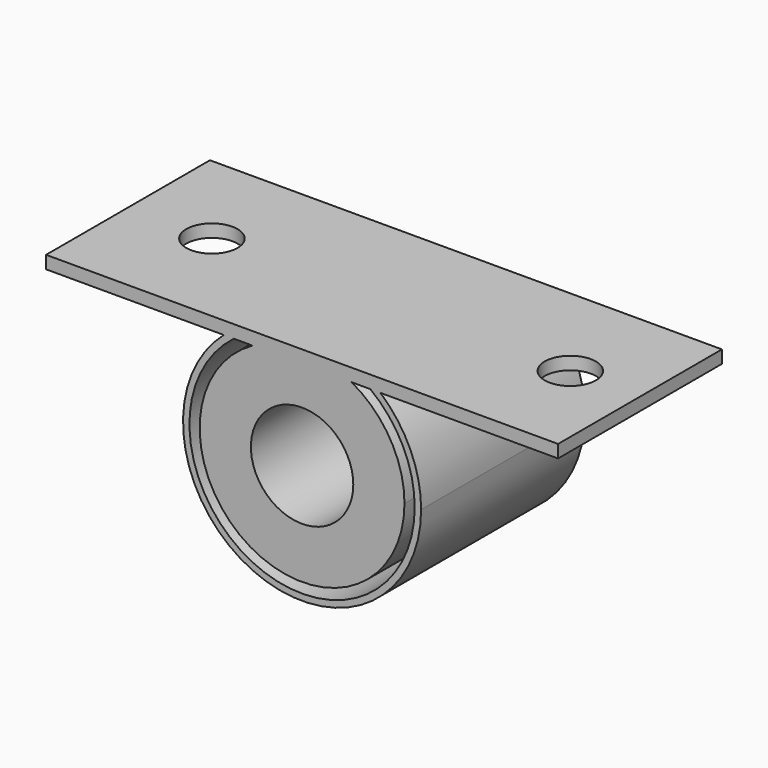
from build123d import *

# Parameters (mm, degrees)
F0_R     = 6.35
F1_DEPTH = 25.4
F3_DEPTH = 25.4


with BuildPart() as f1:
    # F0 (on Front) → F1 (new body)
    with BuildSketch(Plane.XZ):
        with BuildLine():
            ThreePointArc((-6.1483610621, 11.1125), (-6.4500315701, -10.9401596307), (12.7, 0))
            ThreePointArc((12.7, 0), (10.9401596307, 6.4500315701), (6.1483610621, 11.1125))
            Line((6.1483610621, 11.1125), (-6.1483610621, 11.1125))
        make_face()
        Circle(F0_R, mode=Mode.SUBTRACT)
        with BuildLine():
            ThreePointArc((7.5285001204, 12.7), (8.6607580386, 11.9565707567), (9.7201161419, 11.1125))
            Line((9.7201161419, 11.1125), (31.75, 11.1125))
            Line((31.75, 11.1125), (31.75, 12.7))
            Line((31.75, 12.7), (7.5285001204, 12.7))
        make_face()
        with BuildLine():
            Line((-31.75, 11.1125), (-9.7201161419, 11.1125))
            ThreePointArc((-9.7201161419, 11.1125), (-8.6607580386, 11.9565707567), (-7.5285001204, 12.7))
            Line((-7.5285001204, 12.7), (-31.75, 12.7))
            Line((-31.75, 12.7), (-31.75, 11.1125))
        make_face()
        with BuildLine():
            ThreePointArc((0, 12.7), (3.175, 12.2967221242), (6.1483610621, 11.1125))
            Line((6.1483610621, 11.1125), (8.4660051825, 11.1125))
            ThreePointArc((8.4660051825, 11.1125), (7.1869050769, 11.9795365276), (5.8198711326, 12.7))
            Line((5.8198711326, 12.7), (0, 12.7))
        make_face()
        with BuildLine():
            Line((-6.1483610621, 11.1125), (6.1483610621, 11.1125))
            ThreePointArc((6.1483610621, 11.1125), (3.175, 12.2967221242), (0, 12.7))
            ThreePointArc((0, 12.7), (-3.175, 12.2967221242), (-6.1483610621, 11.1125))
        make_face()
        with BuildLine():
            Line((-8.4660051825, 11.1125), (-6.1483610621, 11.1125))
            ThreePointArc((-6.1483610621, 11.1125), (-3.175, 12.2967221242), (0, 12.7))
            Line((0, 12.7), (-5.8198711326, 12.7))
            ThreePointArc((-5.8198711326, 12.7), (-7.1869050769, 11.9795365276), (-8.4660051825, 11.1125))
        make_face()
        with BuildLine():
            Line((-9.7201161419, 11.1125), (-8.4660051825, 11.1125))
            ThreePointArc((-8.4660051825, 11.1125), (-7.1869050769, 11.9795365276), (-5.8198711326, 12.7))
            Line((-5.8198711326, 12.7), (-7.5285001204, 12.7))
            ThreePointArc((-7.5285001204, 12.7), (-8.6607580386, 11.9565707567), (-9.7201161419, 11.1125))
        make_face()
        with BuildLine():
            ThreePointArc((5.8198711326, 12.7), (7.1869050769, 11.9795365276), (8.4660051825, 11.1125))
            Line((8.4660051825, 11.1125), (9.7201161419, 11.1125))
            ThreePointArc((9.7201161419, 11.1125), (8.6607580386, 11.9565707567), (7.5285001204, 12.7))
            Line((7.5285001204, 12.7), (5.8198711326, 12.7))
        make_face()
        with BuildLine():
            Line((9.7201161419, 11.1125), (8.4660051825, 11.1125))
            ThreePointArc((8.4660051825, 11.1125), (12.5186060007, 6.200435775), (13.97, 0))
            ThreePointArc((13.97, 0), (-6.200435775, -12.5186060007), (-8.4660051825, 11.1125))
            Line((-8.4660051825, 11.1125), (-9.7201161419, 11.1125))
            ThreePointArc((-9.7201161419, 11.1125), (-6.1017599663, -13.443840202), (14.76375, 0))
            ThreePointArc((14.76375, 0), (13.443840202, 6.1017599663), (9.7201161419, 11.1125))
        make_face()
    extrude(amount=F1_DEPTH)

    # F2 (on face) → F3 (cut)
    with BuildSketch(Plane.XY.offset(12.7)):
        with BuildLine():
            ThreePointArc((-24.5188905776, -12.7), (-21.3438905776, -15.875), (-18.1688905776, -12.7))
            Line((-18.1688905776, -12.7), (-24.5188905776, -12.7))
        make_face()
        with BuildLine():
            Line((-24.5188905776, -12.7), (-18.1688905776, -12.7))
            ThreePointArc((-18.1688905776, -12.7), (-21.3438905776, -9.525), (-24.5188905776, -12.7))
        make_face()
        with BuildLine():
            Line((19.9311094224, -12.7), (26.2811094224, -12.7))
            ThreePointArc((26.2811094224, -12.7), (23.1061094224, -9.525), (19.9311094224, -12.7))
        make_face()
        with BuildLine():
            ThreePointArc((19.9311094224, -12.7), (23.1061094224, -15.875), (26.2811094224, -12.7))
            Line((26.2811094224, -12.7), (19.9311094224, -12.7))
        make_face()
    extrude(amount=-F3_DEPTH, mode=Mode.SUBTRACT)


solid = f1.part
